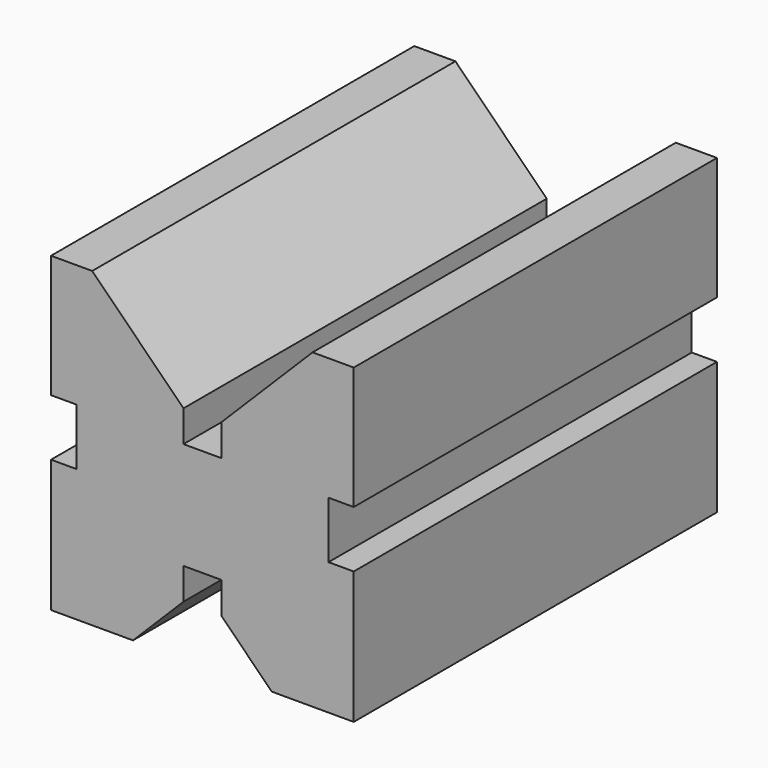
from build123d import *

# Parameters (mm, degrees)
F1_DEPTH = 72


with BuildPart() as f1:
    # F0 (on Front) → F1 (new body)
    with BuildSketch(Plane.XZ):
        Polygon((-24, 21), (-24, 0), (-11, 0), (-3, 8), (-3, 13), (3, 13), (3, 8), (11, 0), (24, 0), (24, 21), (20, 21), (20, 30), (24, 30), (24, 49.469689), (17.469689, 49.469689), (3, 35), (3, 30), (-3, 30), (-3, 35), (-17.469689, 49.469689), (-24, 49.469689), (-24, 30), (-20, 30), (-20, 21), align=None)
    extrude(amount=-F1_DEPTH)


solid = f1.part
